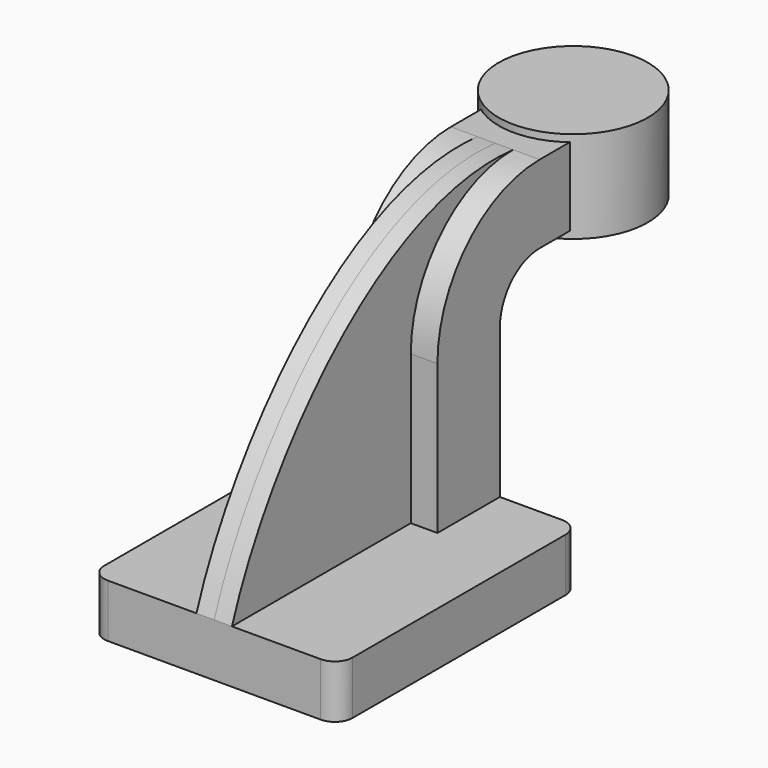
from build123d import *

# Parameters (mm, degrees)
F1_DEPTH = 35
F0_W     = 13.9812313979
F0_H     = 22
F2_DEPTH = 12.5
F3_DEPTH = 5
F5_R     = 5


with BuildPart() as f1:
    # F0 (on Right) → F1 (new body, symmetric)
    with BuildSketch(Plane.YZ):
        Polygon((42.5, -7.5), (42.5, 7.5), (20.5, 7.5), (-42.5, 7.5), (-42.5, -7.5), align=None)
    extrude(amount=F1_DEPTH, both=True)

    # F0 (on Right) → F2 (join, symmetric)
    with BuildSketch(Plane.YZ):
        with BuildLine():
            Line((20.5, 7.5), (42.5, 7.5))
            Line((42.5, 7.5), (42.5, 49.5))
            ThreePointArc((42.5, 49.5), (46.6005050634, 59.3994949366), (56.5, 63.5))
            Line((56.5, 63.5), (70, 63.5))
            Line((70, 63.5), (70, 85.5))
            Line((70, 85.5), (56.5, 85.5))
            ThreePointArc((56.5, 85.5), (31.0441558773, 74.9558441227), (20.5, 49.5))
            Line((20.5, 49.5), (20.5, 7.5))
        make_face()
        with Locations((76.9906156989, 74.5)):
            Rectangle(F0_W, F0_H)
    extrude(amount=F2_DEPTH, both=True)

    # F0 (on Right) → F3 (join, symmetric)
    with BuildSketch(Plane.YZ):
        with BuildLine():
            Line((-42.5, 7.5), (20.5, 7.5))
            Line((20.5, 7.5), (20.5, 49.5))
            ThreePointArc((20.5, 49.5), (31.0441558773, 74.9558441227), (56.5, 85.5))
            add(Edge.make_bspline(
                [(-42.5, 7.5), (-29.6354852617, 44.1676005125), (9.8784975708, 90.0786296129), (56.5, 85.5)],
                knots=[0, 0, 0, 0, 126.0357092256, 126.0357092256, 126.0357092256, 126.0357092256], degree=3))
        make_face()
    extrude(amount=F3_DEPTH, both=True)

    # F5
    f5_edges = [f1.edges().sort_by_distance(p)[0] for p in [
        (35, 42.5, 0),
        (-35, 42.5, 0),
        (35, -42.5, 0),
        (-35, -42.5, 0),
    ]]
    fillet(f5_edges, radius=F5_R)


with BuildPart() as f4:
    # F0 (on Right) → F4 (revolve)
    with BuildSketch(Plane.YZ):
        Polygon((83.9812313979, 85.5), (83.9812313979, 63.5), (83.9812313979, 61.5), (105, 61.5), (105, 87.5), (83.9812313979, 87.5), align=None)
    revolve(axis=Axis((0, 83.9812313979, 74.5), (0, 0, 1)))


solid = Compound([f1.part, f4.part])
